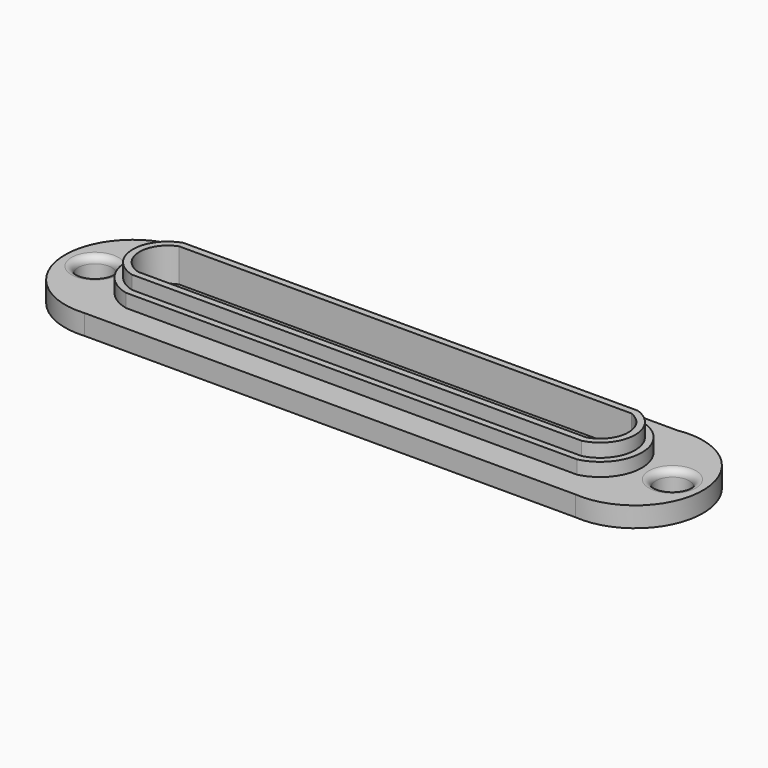
from build123d import *

# Parameters (mm, degrees)
F0_R     = 2.5
F1_DEPTH = 3
F2_DEPTH = 5
F3_DEPTH = 7
F4_DEPTH = 2
F5_R     = 0.75
F5_R_2   = 0.7
F6_DEPTH = 25
F7_R     = 1


with BuildPart() as f1:
    # F0 (on Top) → F1 (new body)
    with BuildSketch(Plane.XY):
        with BuildLine():
            Line((-36.539011, -10), (0, -10))
            Line((0, -10), (36.539011, -10))
            ThreePointArc((36.539011, -10), (47.491782, 0.473014), (35.706888, 10))
            Line((35.706888, 10), (0, 10))
            Line((0, 10), (-35.706888, 10))
            ThreePointArc((-35.706888, 10), (-47.491782, 0.473014), (-36.539011, -10))
        make_face()
        with Locations((-43.000363, 0)):
            Circle(F0_R, mode=Mode.SUBTRACT)
        with BuildLine():
            Line((33.603549, -6), (0, -6))
            Line((0, -6), (-33.603549, -6))
            ThreePointArc((-33.603549, -6), (-38.405942, -0.153092), (-34.002674, 6))
            Line((-34.002674, 6), (0, 6))
            Line((0, 6), (34.002674, 6))
            ThreePointArc((34.002674, 6), (38.405942, -0.153092), (33.603549, -6))
        make_face(mode=Mode.SUBTRACT)
        with Locations((43.000363, 0)):
            Circle(F0_R, mode=Mode.SUBTRACT)
    extrude(amount=F1_DEPTH)

    # F0 (on Top) → F2 (join)
    with BuildSketch(Plane.XY):
        with BuildLine():
            Line((-33.603549, -6), (0, -6))
            Line((0, -6), (33.603549, -6))
            ThreePointArc((33.603549, -6), (38.405942, -0.153092), (34.002674, 6))
            Line((34.002674, 6), (0, 6))
            Line((0, 6), (-34.002674, 6))
            ThreePointArc((-34.002674, 6), (-38.405942, -0.153092), (-33.603549, -6))
        make_face()
        with BuildLine():
            Line((-33.847273, 5), (0, 5))
            Line((0, 5), (33.847273, 5))
            ThreePointArc((33.847273, 5), (37.405931, -0.136053), (33.483545, -5))
            Line((33.483545, -5), (0, -5))
            Line((0, -5), (-33.483545, -5))
            ThreePointArc((-33.483545, -5), (-37.405931, -0.136053), (-33.847273, 5))
        make_face(mode=Mode.SUBTRACT)
    extrude(amount=F2_DEPTH)

    # F0 (on Top) → F3 (join)
    with BuildSketch(Plane.XY):
        with BuildLine():
            Line((33.847273, 5), (0, 5))
            Line((0, 5), (-33.847273, 5))
            ThreePointArc((-33.847273, 5), (-37.405931, -0.136053), (-33.483545, -5))
            Line((-33.483545, -5), (0, -5))
            Line((0, -5), (33.483545, -5))
            ThreePointArc((33.483545, -5), (37.405931, -0.136053), (33.847273, 5))
        make_face()
        with BuildLine():
            Line((33.351164, -4), (0, -4))
            Line((0, -4), (-33.351164, -4))
            ThreePointArc((-33.351164, -4), (-36.405914, -0.117327), (-33.675664, 4))
            Line((-33.675664, 4), (0, 4))
            Line((0, 4), (33.675664, 4))
            ThreePointArc((33.675664, 4), (36.405914, -0.117327), (33.351164, -4))
        make_face(mode=Mode.SUBTRACT)
    extrude(amount=F3_DEPTH)

    # F0 (on Top) → F4 (join)
    with BuildSketch(Plane.XY):
        with BuildLine():
            Line((-33.351164, -4), (0, -4))
            Line((0, -4), (33.351164, -4))
            ThreePointArc((33.351164, -4), (36.405914, -0.117327), (33.675664, 4))
            Line((33.675664, 4), (0, 4))
            Line((0, 4), (-33.675664, 4))
            ThreePointArc((-33.675664, 4), (-36.405914, -0.117327), (-33.351164, -4))
        make_face()
    extrude(amount=F4_DEPTH)

    # F5 (on face) → F6 (cut)
    with BuildSketch(Plane.XY.offset(2)):
        with BuildLine():
            ThreePointArc((0, 0.75), (-0.75, 0), (0, -0.75))
            ThreePointArc((0, -0.75), (0.75, 0), (0, 0.75))
        make_face()
        with BuildLine():
            ThreePointArc((0, 3.25), (-0.75, 2.5), (0, 1.75))
            ThreePointArc((0, 1.75), (0.75, 2.5), (0, 3.25))
        make_face()
        with Locations((2.5, 0)):
            Circle(F5_R)
        with Locations((2.5, 2.5)):
            Circle(F5_R)
        with Locations((5, 0)):
            Circle(F5_R)
        with Locations((5, 2.5)):
            Circle(F5_R)
        with Locations((7.5, 0)):
            Circle(F5_R)
        with Locations((7.5, 2.5)):
            Circle(F5_R)
        with Locations((10, 0)):
            Circle(F5_R)
        with Locations((10, 2.5)):
            Circle(F5_R)
        with Locations((12.5, 0)):
            Circle(F5_R)
        with Locations((12.5, 2.5)):
            Circle(F5_R)
        with Locations((15, 0)):
            Circle(F5_R)
        with Locations((15, 2.5)):
            Circle(F5_R)
        with Locations((17.5, 0)):
            Circle(F5_R)
        with Locations((17.5, 2.5)):
            Circle(F5_R)
        with Locations((20, 0)):
            Circle(F5_R)
        with Locations((20, 2.5)):
            Circle(F5_R)
        with Locations((22.5, 0)):
            Circle(F5_R)
        with Locations((22.5, 2.5)):
            Circle(F5_R)
        with Locations((25, 0)):
            Circle(F5_R)
        with Locations((25, 2.5)):
            Circle(F5_R)
        with Locations((2.5, -2.5)):
            Circle(F5_R)
        with Locations((5, -2.5)):
            Circle(F5_R)
        with Locations((7.5, -2.5)):
            Circle(F5_R)
        with Locations((10, -2.5)):
            Circle(F5_R)
        with Locations((12.5, -2.5)):
            Circle(F5_R)
        with Locations((15, -2.5)):
            Circle(F5_R)
        with Locations((17.5, -2.5)):
            Circle(F5_R)
        with Locations((20, -2.5)):
            Circle(F5_R)
        with Locations((22.5, -2.5)):
            Circle(F5_R)
        with Locations((25, -2.5)):
            Circle(F5_R)
        with Locations((27.5, 0)):
            Circle(F5_R)
        with Locations((27.5, -2.5)):
            Circle(F5_R)
        with Locations((-12.5, 0)):
            Circle(F5_R)
        with Locations((-17.5, 0)):
            Circle(F5_R)
        with Locations((-7.5, 0)):
            Circle(F5_R)
        with Locations((-5, 0)):
            Circle(F5_R)
        with Locations((-15, 0)):
            Circle(F5_R)
        with Locations((-20, 0)):
            Circle(F5_R)
        with Locations((-10, 0)):
            Circle(F5_R)
        with Locations((-12.5, 2.5)):
            Circle(F5_R)
        with Locations((-10, 2.5)):
            Circle(F5_R)
        with Locations((-7.5, 2.5)):
            Circle(F5_R)
        with Locations((-5, 2.5)):
            Circle(F5_R)
        with Locations((-2.5, 0)):
            Circle(F5_R)
        with Locations((-2.5, 2.5)):
            Circle(F5_R)
        with Locations((-17.5, 2.5)):
            Circle(F5_R)
        with Locations((-15, 2.5)):
            Circle(F5_R)
        with Locations((-20, 2.5)):
            Circle(F5_R)
        with Locations((-27.5, 0)):
            Circle(F5_R)
        with Locations((-22.5, 0)):
            Circle(F5_R)
        with Locations((-25, 0)):
            Circle(F5_R)
        with Locations((-27.5, -2.5)):
            Circle(F5_R)
        with Locations((-25, 2.5)):
            Circle(F5_R)
        with Locations((-22.5, 2.5)):
            Circle(F5_R)
        with Locations((-17.5, -2.5)):
            Circle(F5_R)
        with Locations((-27.5, 2.5)):
            Circle(F5_R)
        with Locations((-20, -2.5)):
            Circle(F5_R)
        with Locations((-22.5, -2.5)):
            Circle(F5_R)
        with Locations((-25, -2.5)):
            Circle(F5_R)
        with Locations((-2.5, -2.5)):
            Circle(F5_R)
        with Locations((-5, -2.5)):
            Circle(F5_R)
        with Locations((-7.5, -2.5)):
            Circle(F5_R)
        with Locations((-10, -2.5)):
            Circle(F5_R)
        with Locations((-12.5, -2.5)):
            Circle(F5_R)
        with Locations((-15, -2.5)):
            Circle(F5_R)
        with Locations((0.020794, -2.485011)):
            Circle(F5_R_2)
        with Locations((-29.956931, 0.036661)):
            Circle(F5_R)
        with Locations((29.956931, 0.036661)):
            Circle(F5_R)
        with Locations((30, -2.5)):
            Circle(F5_R)
        with Locations((32.5, 0)):
            Circle(F5_R)
        with Locations((32.5, -2.5)):
            Circle(F5_R)
        with Locations((35, 0)):
            Circle(F5_R)
        with Locations((27.5, 2.5)):
            Circle(F5_R)
        with Locations((30, 2.5)):
            Circle(F5_R)
        with Locations((32.5, 2.5)):
            Circle(F5_R)
        with Locations((-30, 2.5)):
            Circle(F5_R)
        with Locations((-32.5, 0)):
            Circle(F5_R)
        with Locations((-30, -2.5)):
            Circle(F5_R)
        with Locations((-32.5, -2.5)):
            Circle(F5_R)
        with Locations((-32.5, 2.5)):
            Circle(F5_R)
        with Locations((-35, 0)):
            Circle(F5_R)
    extrude(amount=-F6_DEPTH, mode=Mode.SUBTRACT)

    # F7
    f7_edges = [f1.edges().sort_by_distance(p)[0] for p in [
        (-45.500363, 0, 3),
        (40.500363, 0, 3),
    ]]
    fillet(f7_edges, radius=F7_R)


solid = f1.part
